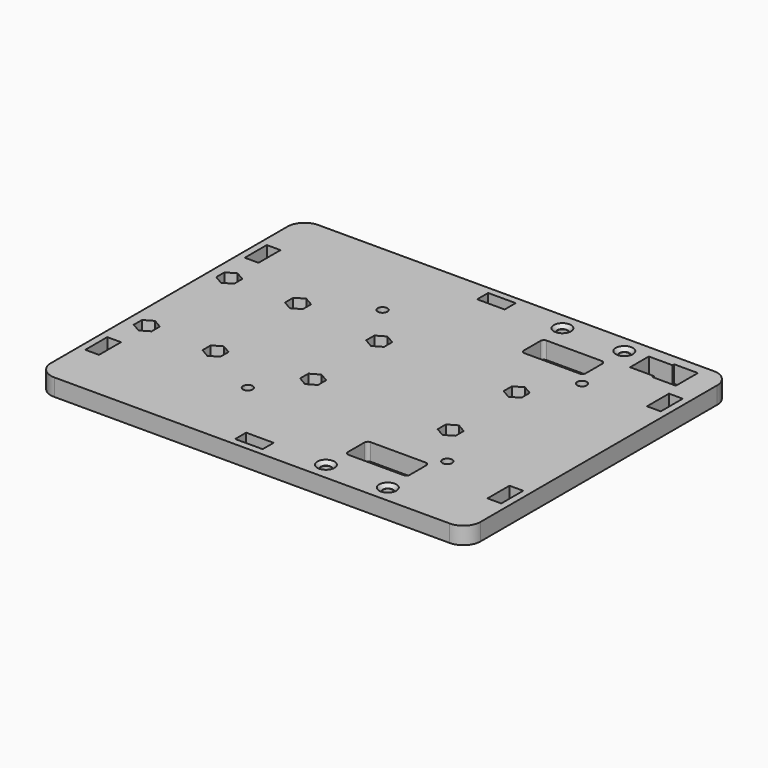
from build123d import *

# Parameters (mm, degrees)
PAD009_START    = 5
SKETCH014_R     = 1.4
SKETCH014_W     = 4
SKETCH014_H     = 8
SKETCH014_W_2   = 8
SKETCH014_H_2   = 4
PAD009_DEPTH    = 5
POCKET010_DEPTH = 2.5
POCKET011_DEPTH = 3
SKETCH022_R     = 2.5
POCKET012_DEPTH = 1
POCKET012_TAPER = 45


with BuildPart() as part:
    # Sketch014 → Pad009 (new body)
    with BuildSketch(Plane.XY.offset(PAD009_START)):
        with BuildLine():
            Line((-89, 43), (-89, -43))
            ThreePointArc((-89, -43), (-87.535534, -46.535534), (-84, -48))
            Line((-84, -48), (31, -48))
            ThreePointArc((31, -48), (34.535534, -46.535534), (36, -43))
            Line((36, -43), (36, 43))
            ThreePointArc((36, 43), (34.535534, 46.535534), (31, 48))
            Line((31, 48), (-84, 48))
            ThreePointArc((-84, 48), (-87.535534, 46.535534), (-89, 43))
        make_face()
        with Locations((-9, 43)):
            Circle(SKETCH014_R, mode=Mode.SUBTRACT)
        with Locations((9, 43)):
            Circle(SKETCH014_R, mode=Mode.SUBTRACT)
        with Locations((-9, -43)):
            Circle(SKETCH014_R, mode=Mode.SUBTRACT)
        with Locations((9, -43)):
            Circle(SKETCH014_R, mode=Mode.SUBTRACT)
        with Locations((-37.5, 12)):
            Circle(SKETCH014_R, mode=Mode.SUBTRACT)
        with Locations((2.5, 12)):
            Circle(SKETCH014_R, mode=Mode.SUBTRACT)
        with Locations((2.5, -12)):
            Circle(SKETCH014_R, mode=Mode.SUBTRACT)
        with Locations((-37.5, -12)):
            Circle(SKETCH014_R, mode=Mode.SUBTRACT)
        with Locations((-83.5, 15)):
            Circle(SKETCH014_R, mode=Mode.SUBTRACT)
        with Locations((-63.5, 15)):
            Circle(SKETCH014_R, mode=Mode.SUBTRACT)
        with Locations((-63.5, -15)):
            Circle(SKETCH014_R, mode=Mode.SUBTRACT)
        with Locations((-83.5, -15)):
            Circle(SKETCH014_R, mode=Mode.SUBTRACT)
        with Locations((-46.5, 24.5)):
            Circle(SKETCH014_R, mode=Mode.SUBTRACT)
        with Locations((-46.5, -24.5)):
            Circle(SKETCH014_R, mode=Mode.SUBTRACT)
        with Locations((11.5, -24.5)):
            Circle(SKETCH014_R, mode=Mode.SUBTRACT)
        with Locations((11.5, 24.5)):
            Circle(SKETCH014_R, mode=Mode.SUBTRACT)
        with BuildLine():
            Line((-9, 35), (-9, 29))
            ThreePointArc((-9, 29), (-8.707107, 28.292893), (-8, 28))
            Line((-8, 28), (8, 28))
            ThreePointArc((8, 28), (8.707107, 28.292893), (9, 29))
            Line((9, 29), (9, 35))
            ThreePointArc((9, 35), (8.707107, 35.707107), (8, 36))
            Line((8, 36), (-8, 36))
            ThreePointArc((-8, 36), (-8.707107, 35.707107), (-9, 35))
        make_face(mode=Mode.SUBTRACT)
        with BuildLine():
            Line((-9, -29), (-9, -35))
            ThreePointArc((-9, -35), (-8.707107, -35.707107), (-8, -36))
            Line((-8, -36), (8, -36))
            ThreePointArc((8, -36), (8.707107, -35.707107), (9, -35))
            Line((9, -35), (9, -29))
            ThreePointArc((9, -29), (8.707107, -28.292893), (8, -28))
            Line((8, -28), (-8, -28))
            ThreePointArc((-8, -28), (-8.707107, -28.292893), (-9, -29))
        make_face(mode=Mode.SUBTRACT)
        Polygon((28.8, 45), (28.8, 37), (21.9, 37), (21.9, 37.6), (15, 37.6), (15, 44.4), (21.9, 44.4), (21.9, 45), align=None, mode=Mode.SUBTRACT)
        with Locations((32, 29)):
            Rectangle(SKETCH014_W, SKETCH014_H, mode=Mode.SUBTRACT)
        with Locations((32, -29)):
            Rectangle(SKETCH014_W, SKETCH014_H, mode=Mode.SUBTRACT)
        with Locations((-29, 44)):
            Rectangle(SKETCH014_W_2, SKETCH014_H_2, mode=Mode.SUBTRACT)
        with Locations((-29, -44)):
            Rectangle(SKETCH014_W_2, SKETCH014_H_2, mode=Mode.SUBTRACT)
        with Locations((-85, 29)):
            Rectangle(SKETCH014_W, SKETCH014_H, mode=Mode.SUBTRACT)
        with Locations((-85, -29)):
            Rectangle(SKETCH014_W, SKETCH014_H, mode=Mode.SUBTRACT)
    extrude(amount=PAD009_DEPTH)

    # Sketch020 (on Face73 of Pad009) → Pocket010 (cut)
    with BuildSketch(Plane(origin=(0, 0, 5), x_dir=(1, 0, 0), z_dir=(0, 0, -1))):
        Polygon((-46.5, -27.5), (-43.901924, -26), (-43.901924, -23), (-46.5, -21.5), (-49.098076, -23), (-49.098076, -26), align=None)
        Polygon((-46.5, 27.5), (-49.098076, 26), (-49.098076, 23), (-46.5, 21.5), (-43.901924, 23), (-43.901924, 26), align=None)
        Polygon((11.5, 27.5), (8.901924, 26), (8.901924, 23), (11.5, 21.5), (14.098076, 23), (14.098076, 26), align=None)
        Polygon((11.5, -27.5), (14.098076, -26), (14.098076, -23), (11.5, -21.5), (8.901924, -23), (8.901924, -26), align=None)
    extrude(amount=-POCKET010_DEPTH, mode=Mode.SUBTRACT)

    # Sketch021 (on Face5 of Pocket010) → Pocket011 (cut)
    with BuildSketch(Plane.XY.offset(10)):
        Polygon((-83.5, 12), (-80.901924, 13.5), (-80.901924, 16.5), (-83.5, 18), (-86.098076, 16.5), (-86.098076, 13.5), align=None)
        Polygon((-83.5, -18), (-80.901924, -16.5), (-80.901924, -13.5), (-83.5, -12), (-86.098076, -13.5), (-86.098076, -16.5), align=None)
        Polygon((-63.5, 12), (-60.901924, 13.5), (-60.901924, 16.5), (-63.5, 18), (-66.098076, 16.5), (-66.098076, 13.5), align=None)
        Polygon((-63.5, -12), (-66.098076, -13.5), (-66.098076, -16.5), (-63.5, -18), (-60.901924, -16.5), (-60.901924, -13.5), align=None)
        Polygon((-37.5, -15), (-34.901924, -13.5), (-34.901924, -10.5), (-37.5, -9), (-40.098076, -10.5), (-40.098076, -13.5), align=None)
        Polygon((-37.5, 15), (-40.098076, 13.5), (-40.098076, 10.5), (-37.5, 9), (-34.901924, 10.5), (-34.901924, 13.5), align=None)
        Polygon((2.5, 15), (-0.098076, 13.5), (-0.098076, 10.5), (2.5, 9), (5.098076, 10.5), (5.098076, 13.5), align=None)
        Polygon((2.5, -15), (5.098076, -13.5), (5.098076, -10.5), (2.5, -9), (-0.098076, -10.5), (-0.098076, -13.5), align=None)
    extrude(amount=-POCKET011_DEPTH, mode=Mode.SUBTRACT)

    # Sketch022 (on Face5 of Pocket011) → Pocket012 (cut)
    with BuildSketch(Plane.XY.offset(10)):
        with Locations((-9, 43)):
            Circle(SKETCH022_R)
        with Locations((9, 43)):
            Circle(SKETCH022_R)
        with Locations((-9, -43)):
            Circle(SKETCH022_R)
        with Locations((9, -43)):
            Circle(SKETCH022_R)
    extrude(amount=-POCKET012_DEPTH, taper=POCKET012_TAPER, mode=Mode.SUBTRACT)


solid = part.part
